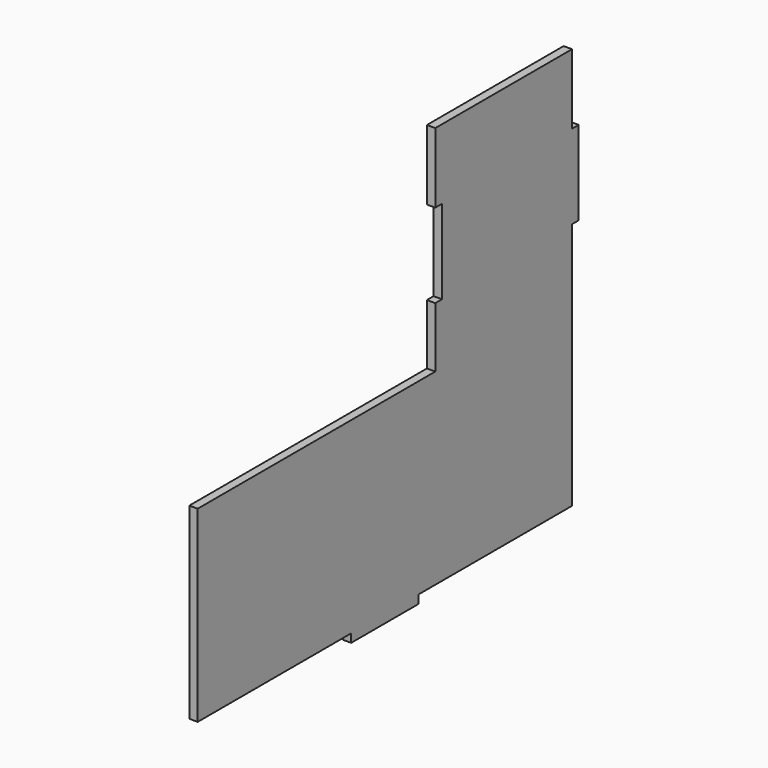
from build123d import *

# Parameters (mm, degrees)
F0_W     = 30
F0_H     = 3
F0_W_2   = 3
F0_H_2   = 30
F1_DEPTH = 3
F2_W     = 3
F2_H     = 30
F3_DEPTH = 25


with BuildPart() as f1:
    # F0 (on Right) → F1 (new body)
    with BuildSketch(Plane.YZ):
        Polygon((0, 67), (0, 0), (68.5, 0), (98.5, 0), (167, 0), (167, 88.5), (167, 118.5), (167, 143.5), (106, 143.5), (106, 67), align=None)
        with Locations((83.5, -1.5)):
            Rectangle(F0_W, F0_H)
        with Locations((168.5, 103.5)):
            Rectangle(F0_W_2, F0_H_2)
    extrude(amount=F1_DEPTH)

    # F2 (on face) → F3 (cut)
    with BuildSketch(Plane.YZ.offset(3)):
        with Locations((107.5, 103.5)):
            Rectangle(F2_W, F2_H)
    extrude(amount=-F3_DEPTH, mode=Mode.SUBTRACT)


solid = f1.part
